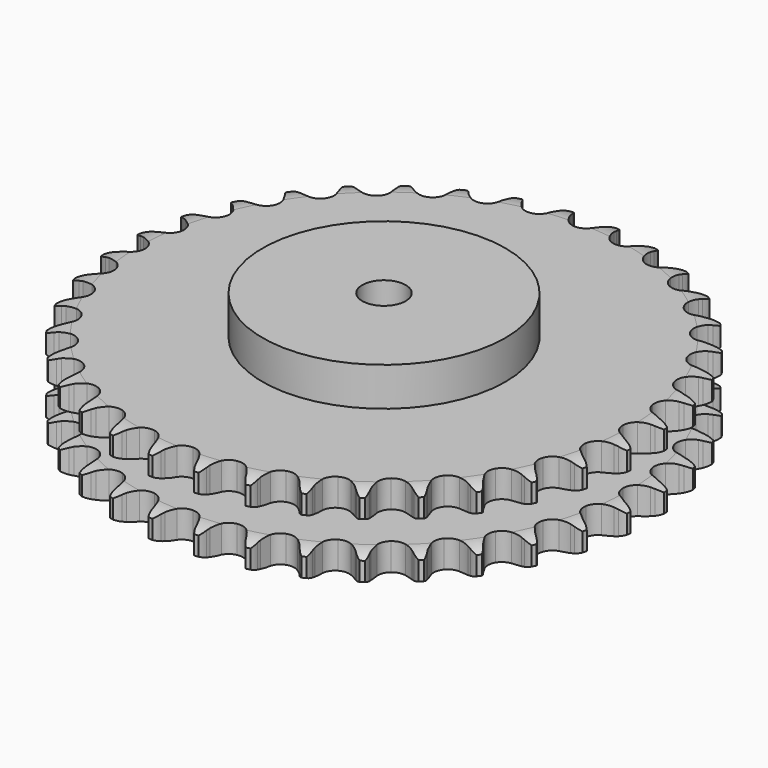
from build123d import *

# Parameters (mm, degrees)
PAD_DEPTH         = 47.7
SKETCH001_R       = 70
PAD001_DEPTH      = 70
SKETCH002_R       = 12.5
POCKET_DEPTH      = 0.0010001
POCKET_DEPTH_BACK = 70.001


with BuildPart() as part:
    # Sprocket → Pad (new body)
    with BuildSketch(Plane.XY):
        with BuildLine():
            ThreePointArc((-13.4111082266, 153.2896684684), (-11.4190056281, 150.9678405212), (-10.0289412419, 148.2425737854))
            Line((-10.0289412419, 148.2425737854), (-9.2543150645, 146.1397186474))
            ThreePointArc((-9.2543150645, 146.1397186474), (-8.0300781185, 143.4325347822), (-6.4312633349, 140.9282600635))
            ThreePointArc((-6.4312633349, 140.9282600635), (-3.598382067, 138.5511904364), (0, 137.69835822))
            ThreePointArc((0, 137.69835822), (3.598382067, 138.5511904364), (6.4312633349, 140.9282600635))
            ThreePointArc((6.4312633349, 140.9282600635), (8.0300781185, 143.4325347822), (9.2543150645, 146.1397186474))
            Line((9.2543150645, 146.1397186474), (10.0289412419, 148.2425737854))
            ThreePointArc((10.0289412419, 148.2425737854), (11.4190056281, 150.9678405212), (13.4111082266, 153.2896684684))
            ThreePointArc((13.4111082266, 153.2896684684), (14.9697651186, 150.6571893189), (15.865473701, 147.7319433609))
            Line((15.865473701, 147.7319433609), (16.2631746036, 145.5265228934))
            ThreePointArc((16.2631746036, 145.5265228934), (16.9987150947, 142.6478807195), (18.1383775479, 139.9040202872))
            ThreePointArc((18.1383775479, 139.9040202872), (20.515447175, 137.0711390193), (23.9110689726, 135.6064107521))
            ThreePointArc((23.9110689726, 135.6064107521), (27.6028762908, 135.8214340424), (30.8054935356, 137.6704659708))
            Line((30.8054935356, 137.6704659708), (34.4906170522, 142.3125330004))
            ThreePointArc((34.4906170522, 142.3125330004), (35.0284284797, 143.2959908431), (35.61863188, 144.2489286197))
            ThreePointArc((35.61863188, 144.2489286197), (37.460815667, 146.6914102827), (39.8258349428, 148.6320394603))
            ThreePointArc((39.8258349428, 148.6320394603), (40.9036871272, 145.7688956553), (41.2778242537, 142.7325525934))
            Line((41.2778242537, 142.7325525934), (41.2865159408, 140.4915773814))
            ThreePointArc((41.2865159408, 140.4915773814), (41.5110109515, 137.5289429845), (42.1568930074, 134.6288676494))
            ThreePointArc((42.1568930074, 134.6288676494), (44.0059249359, 131.4262504045), (47.0956122141, 129.3941311137))
            ThreePointArc((47.0956122141, 129.3941311137), (50.7686710861, 128.9648121039), (54.2437144036, 130.2296244343))
            Line((54.2437144036, 130.2296244343), (58.6789390938, 134.1612530519))
            ThreePointArc((58.6789390938, 134.1612530519), (59.3793556196, 135.0363799858), (60.1260684124, 135.8723527515))
            ThreePointArc((60.1260684124, 135.8723527515), (62.3643977781, 137.9578357722), (65.030473817, 139.4583011446))
            ThreePointArc((65.030473817, 139.4583011446), (65.5947713007, 136.4514878599), (65.4359690041, 133.3963054415))
            Line((65.4359690041, 133.3963054415), (65.0553873832, 131.1878663827))
            ThreePointArc((65.0553873832, 131.1878663827), (64.7620157461, 128.2312579099), (64.8944926053, 125.2630849935))
            ThreePointArc((64.8944926053, 125.2630849935), (66.1593049357, 121.788041676), (68.84917911, 119.2502762779))
            ThreePointArc((68.84917911, 119.2502762779), (72.3918855008, 118.189659609), (76.0337674582, 118.8318216587))
            Line((76.0337674582, 118.8318216587), (81.0843312641, 121.9335513183))
            ThreePointArc((81.0843312641, 121.9335513183), (81.9260710863, 122.6737570543), (82.8066047812, 123.3673641996))
            ThreePointArc((82.8066047812, 123.3673641996), (85.3730692205, 125.0324822318), (88.2591946514, 126.047192918))
            ThreePointArc((88.2591946514, 126.047192918), (88.2927915408, 122.9880706536), (87.6058749486, 120.0068790505))
            Line((87.6058749486, 120.0068790505), (86.8475837996, 117.8980784483))
            ThreePointArc((86.8475837996, 117.8980784483), (86.0452594634, 115.0373309518), (85.6603058836, 112.0912468863))
            ThreePointArc((85.6603058836, 112.0912468863), (86.3024679332, 108.4493649289), (88.510798538, 105.483062141))
            ThreePointArc((88.510798538, 105.483062141), (91.8155091065, 103.8233741137), (95.5135729634, 103.8233741137))
            Line((95.5135729634, 103.8233741137), (101.0260170596, 106.0009603292))
            ThreePointArc((101.0260170596, 106.0009603292), (101.9835043396, 106.5837540907), (102.971104366, 107.1139207134))
            ThreePointArc((102.971104366, 107.1139207134), (105.7877231555, 108.3080799883), (108.8062045175, 108.8062045175))
            ThreePointArc((108.8062045175, 108.8062045175), (108.3080799883, 105.7877231555), (107.1139207134, 102.971104366))
            Line((107.1139207134, 102.971104366), (106.0009603292, 101.0260170596))
            ThreePointArc((106.0009603292, 101.0260170596), (104.714061513, 98.3480529044), (103.8233741137, 95.5135729634))
            ThreePointArc((103.8233741137, 95.5135729634), (103.8233741137, 91.8155091065), (105.483062141, 88.510798538))
            ThreePointArc((105.483062141, 88.510798538), (108.4493649289, 86.3024679332), (112.0912468863, 85.6603058836))
            Line((112.0912468863, 85.6603058836), (117.8980784483, 86.8475837996))
            ThreePointArc((117.8980784483, 86.8475837996), (118.9422204198, 87.255257693), (120.0068790505, 87.6058749486))
            ThreePointArc((120.0068790505, 87.6058749486), (122.9880706536, 88.2927915408), (126.047192918, 88.2591946514))
            ThreePointArc((126.047192918, 88.2591946514), (125.0324822318, 85.3730692205), (123.3673641996, 82.8066047812))
            Line((123.3673641996, 82.8066047812), (121.9335513183, 81.0843312641))
            ThreePointArc((121.9335513183, 81.0843312641), (120.2011797913, 78.6705190361), (118.8318216587, 76.0337674582))
            ThreePointArc((118.8318216587, 76.0337674582), (118.189659609, 72.3918855008), (119.2502762779, 68.84917911))
            ThreePointArc((119.2502762779, 68.84917911), (121.788041676, 66.1593049357), (125.2630849935, 64.8944926053))
            Line((125.2630849935, 64.8944926053), (131.1878663827, 65.0553873832))
            ThreePointArc((131.1878663827, 65.0553873832), (132.2869373201, 65.2755544436), (133.3963054415, 65.4359690041))
            ThreePointArc((133.3963054415, 65.4359690041), (136.4514878599, 65.5947713007), (139.4583011446, 65.030473817))
            ThreePointArc((139.4583011446, 65.030473817), (137.9578357722, 62.3643977781), (135.8723527515, 60.1260684124))
            Line((135.8723527515, 60.1260684124), (134.1612530519, 58.6789390938))
            ThreePointArc((134.1612530519, 58.6789390938), (132.0360460465, 56.6026212561), (130.2296244343, 54.2437144036))
            ThreePointArc((130.2296244343, 54.2437144036), (128.9648121039, 50.7686710861), (129.3941311137, 47.0956122141))
            ThreePointArc((129.3941311137, 47.0956122141), (131.4262504045, 44.0059249359), (134.6288676494, 42.1568930074))
            Line((134.6288676494, 42.1568930074), (140.4915773814, 41.2865159408))
            ThreePointArc((140.4915773814, 41.2865159408), (141.6121825704, 41.3124865034), (142.7325525934, 41.2778242537))
            ThreePointArc((142.7325525934, 41.2778242537), (145.7688956553, 40.9036871272), (148.6320394603, 39.8258349428))
            ThreePointArc((148.6320394603, 39.8258349428), (146.6914102827, 37.4608156671), (144.2489286197, 35.61863188))
            Line((144.2489286197, 35.61863188), (142.3125330004, 34.4906170522))
            ThreePointArc((142.3125330004, 34.4906170522), (139.8590638559, 32.8148814715), (137.6704659708, 30.8054935356))
            ThreePointArc((137.6704659708, 30.8054935356), (135.8214340424, 27.6028762908), (135.6064107521, 23.9110689726))
            ThreePointArc((135.6064107521, 23.9110689726), (137.0711390193, 20.515447175), (139.9040202872, 18.1383775479))
            Line((139.9040202872, 18.1383775479), (145.5265228934, 16.2631746036))
            ThreePointArc((145.5265228934, 16.2631746036), (146.6346133126, 16.094159566), (147.7319433609, 15.865473701))
            ThreePointArc((147.7319433609, 15.865473701), (150.6571893189, 14.9697651186), (153.2896684684, 13.4111082266))
            ThreePointArc((153.2896684684, 13.4111082266), (150.9678405212, 11.4190056281), (148.2425737854, 10.0289412419))
            Line((148.2425737854, 10.0289412419), (146.1397186474, 9.2543150645))
            ThreePointArc((146.1397186474, 9.2543150645), (143.4325347822, 8.0300781185), (140.9282600635, 6.4312633349))
            ThreePointArc((140.9282600635, 6.4312633349), (138.5511904364, 3.598382067), (137.69835822, 0))
            ThreePointArc((137.69835822, 0), (138.5511904364, -3.598382067), (140.9282600635, -6.4312633349))
            Line((140.9282600635, -6.4312633349), (146.1397186474, -9.2543150645))
            ThreePointArc((146.1397186474, -9.2543150645), (147.2016255299, -9.6131802658), (148.2425737854, -10.0289412419))
            ThreePointArc((148.2425737854, -10.0289412419), (150.9678405212, -11.4190056281), (153.2896684684, -13.4111082266))
            ThreePointArc((153.2896684684, -13.4111082266), (150.6571893189, -14.9697651186), (147.7319433609, -15.865473701))
            Line((147.7319433609, -15.865473701), (145.5265228934, -16.2631746036))
            ThreePointArc((145.5265228934, -16.2631746036), (142.6478807195, -16.9987150947), (139.9040202872, -18.1383775479))
            ThreePointArc((139.9040202872, -18.1383775479), (137.0711390193, -20.515447175), (135.6064107521, -23.9110689726))
            ThreePointArc((135.6064107521, -23.9110689726), (135.8214340424, -27.6028762908), (137.6704659708, -30.8054935356))
            Line((137.6704659708, -30.8054935356), (142.3125330004, -34.4906170522))
            ThreePointArc((142.3125330004, -34.4906170522), (143.2959908431, -35.0284284797), (144.2489286197, -35.61863188))
            ThreePointArc((144.2489286197, -35.61863188), (146.6914102827, -37.460815667), (148.6320394603, -39.8258349428))
            ThreePointArc((148.6320394603, -39.8258349428), (145.7688956553, -40.9036871272), (142.7325525934, -41.2778242537))
            Line((142.7325525934, -41.2778242537), (140.4915773814, -41.2865159408))
            ThreePointArc((140.4915773814, -41.2865159408), (137.5289429845, -41.5110109515), (134.6288676494, -42.1568930074))
            ThreePointArc((134.6288676494, -42.1568930074), (131.4262504045, -44.0059249359), (129.3941311137, -47.0956122141))
            ThreePointArc((129.3941311137, -47.0956122141), (128.9648121039, -50.7686710861), (130.2296244343, -54.2437144036))
            Line((130.2296244343, -54.2437144036), (134.1612530519, -58.6789390938))
            ThreePointArc((134.1612530519, -58.6789390938), (135.0363799858, -59.3793556196), (135.8723527515, -60.1260684124))
            ThreePointArc((135.8723527515, -60.1260684124), (137.9578357722, -62.3643977781), (139.4583011446, -65.030473817))
            ThreePointArc((139.4583011446, -65.030473817), (136.4514878599, -65.5947713007), (133.3963054415, -65.4359690041))
            Line((133.3963054415, -65.4359690041), (131.1878663827, -65.0553873832))
            ThreePointArc((131.1878663827, -65.0553873832), (128.2312579099, -64.7620157461), (125.2630849935, -64.8944926053))
            ThreePointArc((125.2630849935, -64.8944926053), (121.788041676, -66.1593049357), (119.2502762779, -68.84917911))
            ThreePointArc((119.2502762779, -68.84917911), (118.189659609, -72.3918855008), (118.8318216587, -76.0337674582))
            Line((118.8318216587, -76.0337674582), (121.9335513183, -81.0843312641))
            ThreePointArc((121.9335513183, -81.0843312641), (122.6737570543, -81.9260710863), (123.3673641996, -82.8066047812))
            ThreePointArc((123.3673641996, -82.8066047812), (125.0324822318, -85.3730692205), (126.047192918, -88.2591946514))
            ThreePointArc((126.047192918, -88.2591946514), (122.9880706536, -88.2927915408), (120.0068790505, -87.6058749486))
            Line((120.0068790505, -87.6058749486), (117.8980784483, -86.8475837996))
            ThreePointArc((117.8980784483, -86.8475837996), (115.0373309518, -86.0452594634), (112.0912468863, -85.6603058836))
            ThreePointArc((112.0912468863, -85.6603058836), (108.4493649289, -86.3024679332), (105.483062141, -88.510798538))
            ThreePointArc((105.483062141, -88.510798538), (103.8233741137, -91.8155091065), (103.8233741137, -95.5135729634))
            Line((103.8233741137, -95.5135729634), (106.0009603292, -101.0260170596))
            ThreePointArc((106.0009603292, -101.0260170596), (106.5837540907, -101.9835043396), (107.1139207134, -102.971104366))
            ThreePointArc((107.1139207134, -102.971104366), (108.3080799883, -105.7877231555), (108.8062045175, -108.8062045175))
            ThreePointArc((108.8062045175, -108.8062045175), (105.7877231555, -108.3080799883), (102.971104366, -107.1139207134))
            Line((102.971104366, -107.1139207134), (101.0260170596, -106.0009603292))
            ThreePointArc((101.0260170596, -106.0009603292), (98.3480529044, -104.714061513), (95.5135729634, -103.8233741137))
            ThreePointArc((95.5135729634, -103.8233741137), (91.8155091065, -103.8233741137), (88.510798538, -105.483062141))
            ThreePointArc((88.510798538, -105.483062141), (86.3024679332, -108.4493649289), (85.6603058836, -112.0912468863))
            Line((85.6603058836, -112.0912468863), (86.8475837996, -117.8980784483))
            ThreePointArc((86.8475837996, -117.8980784483), (87.255257693, -118.9422204198), (87.6058749486, -120.0068790505))
            ThreePointArc((87.6058749486, -120.0068790505), (88.2927915408, -122.9880706536), (88.2591946514, -126.047192918))
            ThreePointArc((88.2591946514, -126.047192918), (85.3730692205, -125.0324822318), (82.8066047812, -123.3673641996))
            Line((82.8066047812, -123.3673641996), (81.0843312641, -121.9335513183))
            ThreePointArc((81.0843312641, -121.9335513183), (78.6705190361, -120.2011797913), (76.0337674582, -118.8318216587))
            ThreePointArc((76.0337674582, -118.8318216587), (72.3918855008, -118.189659609), (68.84917911, -119.2502762779))
            ThreePointArc((68.84917911, -119.2502762779), (66.1593049357, -121.788041676), (64.8944926053, -125.2630849935))
            Line((64.8944926053, -125.2630849935), (65.0553873832, -131.1878663827))
            ThreePointArc((65.0553873832, -131.1878663827), (65.2755544436, -132.2869373201), (65.4359690041, -133.3963054415))
            ThreePointArc((65.4359690041, -133.3963054415), (65.5947713007, -136.4514878599), (65.030473817, -139.4583011446))
            ThreePointArc((65.030473817, -139.4583011446), (62.3643977781, -137.9578357722), (60.1260684124, -135.8723527515))
            Line((60.1260684124, -135.8723527515), (58.6789390938, -134.1612530519))
            ThreePointArc((58.6789390938, -134.1612530519), (56.6026212561, -132.0360460465), (54.2437144036, -130.2296244343))
            ThreePointArc((54.2437144036, -130.2296244343), (50.7686710861, -128.9648121039), (47.0956122141, -129.3941311137))
            ThreePointArc((47.0956122141, -129.3941311137), (44.0059249359, -131.4262504045), (42.1568930074, -134.6288676494))
            Line((42.1568930074, -134.6288676494), (41.2865159408, -140.4915773814))
            ThreePointArc((41.2865159408, -140.4915773814), (41.3124865034, -141.6121825704), (41.2778242537, -142.7325525934))
            ThreePointArc((41.2778242537, -142.7325525934), (40.9036871272, -145.7688956553), (39.8258349428, -148.6320394603))
            ThreePointArc((39.8258349428, -148.6320394603), (37.4608156671, -146.6914102827), (35.61863188, -144.2489286197))
            Line((35.61863188, -144.2489286197), (34.4906170522, -142.3125330004))
            ThreePointArc((34.4906170522, -142.3125330004), (32.8148814715, -139.8590638559), (30.8054935356, -137.6704659708))
            ThreePointArc((30.8054935356, -137.6704659708), (27.6028762908, -135.8214340424), (23.9110689726, -135.6064107521))
            ThreePointArc((23.9110689726, -135.6064107521), (20.515447175, -137.0711390193), (18.1383775479, -139.9040202872))
            Line((18.1383775479, -139.9040202872), (16.2631746036, -145.5265228934))
            ThreePointArc((16.2631746036, -145.5265228934), (16.094159566, -146.6346133126), (15.865473701, -147.7319433609))
            ThreePointArc((15.865473701, -147.7319433609), (14.9697651186, -150.6571893189), (13.4111082266, -153.2896684684))
            ThreePointArc((13.4111082266, -153.2896684684), (11.4190056281, -150.9678405212), (10.0289412419, -148.2425737854))
            Line((10.0289412419, -148.2425737854), (9.2543150645, -146.1397186474))
            ThreePointArc((9.2543150645, -146.1397186474), (8.0300781185, -143.4325347822), (6.4312633349, -140.9282600635))
            ThreePointArc((6.4312633349, -140.9282600635), (3.598382067, -138.5511904364), (0, -137.69835822))
            ThreePointArc((0, -137.69835822), (-3.598382067, -138.5511904364), (-6.4312633349, -140.9282600635))
            Line((-6.4312633349, -140.9282600635), (-9.2543150645, -146.1397186474))
            ThreePointArc((-9.2543150645, -146.1397186474), (-9.6131802658, -147.2016255299), (-10.0289412419, -148.2425737854))
            ThreePointArc((-10.0289412419, -148.2425737854), (-11.4190056281, -150.9678405212), (-13.4111082266, -153.2896684684))
            ThreePointArc((-13.4111082266, -153.2896684684), (-14.9697651186, -150.6571893189), (-15.865473701, -147.7319433609))
            Line((-15.865473701, -147.7319433609), (-16.2631746036, -145.5265228934))
            ThreePointArc((-16.2631746036, -145.5265228934), (-16.9987150947, -142.6478807195), (-18.1383775479, -139.9040202872))
            ThreePointArc((-18.1383775479, -139.9040202872), (-20.515447175, -137.0711390193), (-23.9110689726, -135.6064107521))
            ThreePointArc((-23.9110689726, -135.6064107521), (-27.6028762908, -135.8214340424), (-30.8054935356, -137.6704659708))
            Line((-30.8054935356, -137.6704659708), (-34.4906170522, -142.3125330004))
            ThreePointArc((-34.4906170522, -142.3125330004), (-35.0284284797, -143.2959908431), (-35.61863188, -144.2489286197))
            ThreePointArc((-35.61863188, -144.2489286197), (-37.460815667, -146.6914102827), (-39.8258349428, -148.6320394603))
            ThreePointArc((-39.8258349428, -148.6320394603), (-40.9036871272, -145.7688956553), (-41.2778242537, -142.7325525934))
            Line((-41.2778242537, -142.7325525934), (-41.2865159408, -140.4915773814))
            ThreePointArc((-41.2865159408, -140.4915773814), (-41.5110109515, -137.5289429845), (-42.1568930074, -134.6288676494))
            ThreePointArc((-42.1568930074, -134.6288676494), (-44.0059249359, -131.4262504045), (-47.0956122141, -129.3941311137))
            ThreePointArc((-47.0956122141, -129.3941311137), (-50.7686710861, -128.9648121039), (-54.2437144036, -130.2296244343))
            Line((-54.2437144036, -130.2296244343), (-58.6789390938, -134.1612530519))
            ThreePointArc((-58.6789390938, -134.1612530519), (-59.3793556196, -135.0363799858), (-60.1260684124, -135.8723527515))
            ThreePointArc((-60.1260684124, -135.8723527515), (-62.3643977781, -137.9578357722), (-65.030473817, -139.4583011446))
            ThreePointArc((-65.030473817, -139.4583011446), (-65.5947713007, -136.4514878599), (-65.4359690041, -133.3963054415))
            Line((-65.4359690041, -133.3963054415), (-65.0553873832, -131.1878663827))
            ThreePointArc((-65.0553873832, -131.1878663827), (-64.7620157461, -128.2312579099), (-64.8944926053, -125.2630849935))
            ThreePointArc((-64.8944926053, -125.2630849935), (-66.1593049357, -121.788041676), (-68.84917911, -119.2502762779))
            ThreePointArc((-68.84917911, -119.2502762779), (-72.3918855008, -118.189659609), (-76.0337674582, -118.8318216587))
            Line((-76.0337674582, -118.8318216587), (-81.0843312641, -121.9335513183))
            ThreePointArc((-81.0843312641, -121.9335513183), (-81.9260710863, -122.6737570543), (-82.8066047812, -123.3673641996))
            ThreePointArc((-82.8066047812, -123.3673641996), (-85.3730692205, -125.0324822318), (-88.2591946514, -126.047192918))
            ThreePointArc((-88.2591946514, -126.047192918), (-88.2927915408, -122.9880706536), (-87.6058749486, -120.0068790505))
            Line((-87.6058749486, -120.0068790505), (-86.8475837996, -117.8980784483))
            ThreePointArc((-86.8475837996, -117.8980784483), (-86.0452594634, -115.0373309518), (-85.6603058836, -112.0912468863))
            ThreePointArc((-85.6603058836, -112.0912468863), (-86.3024679332, -108.4493649289), (-88.510798538, -105.483062141))
            ThreePointArc((-88.510798538, -105.483062141), (-91.8155091065, -103.8233741137), (-95.5135729634, -103.8233741137))
            Line((-95.5135729634, -103.8233741137), (-101.0260170596, -106.0009603292))
            ThreePointArc((-101.0260170596, -106.0009603292), (-101.9835043396, -106.5837540907), (-102.971104366, -107.1139207134))
            ThreePointArc((-102.971104366, -107.1139207134), (-105.7877231555, -108.3080799883), (-108.8062045175, -108.8062045175))
            ThreePointArc((-108.8062045175, -108.8062045175), (-108.3080799883, -105.7877231555), (-107.1139207134, -102.971104366))
            Line((-107.1139207134, -102.971104366), (-106.0009603292, -101.0260170596))
            ThreePointArc((-106.0009603292, -101.0260170596), (-104.714061513, -98.3480529044), (-103.8233741137, -95.5135729634))
            ThreePointArc((-103.8233741137, -95.5135729634), (-103.8233741137, -91.8155091065), (-105.483062141, -88.510798538))
            ThreePointArc((-105.483062141, -88.510798538), (-108.4493649289, -86.3024679332), (-112.0912468863, -85.6603058836))
            Line((-112.0912468863, -85.6603058836), (-117.8980784483, -86.8475837996))
            ThreePointArc((-117.8980784483, -86.8475837996), (-118.9422204198, -87.255257693), (-120.0068790505, -87.6058749486))
            ThreePointArc((-120.0068790505, -87.6058749486), (-122.9880706536, -88.2927915408), (-126.047192918, -88.2591946514))
            ThreePointArc((-126.047192918, -88.2591946514), (-125.0324822318, -85.3730692205), (-123.3673641996, -82.8066047812))
            Line((-123.3673641996, -82.8066047812), (-121.9335513183, -81.0843312641))
            ThreePointArc((-121.9335513183, -81.0843312641), (-120.2011797913, -78.6705190361), (-118.8318216587, -76.0337674582))
            ThreePointArc((-118.8318216587, -76.0337674582), (-118.189659609, -72.3918855008), (-119.2502762779, -68.84917911))
            ThreePointArc((-119.2502762779, -68.84917911), (-121.788041676, -66.1593049357), (-125.2630849935, -64.8944926053))
            Line((-125.2630849935, -64.8944926053), (-131.1878663827, -65.0553873832))
            ThreePointArc((-131.1878663827, -65.0553873832), (-132.2869373201, -65.2755544436), (-133.3963054415, -65.4359690041))
            ThreePointArc((-133.3963054415, -65.4359690041), (-136.4514878599, -65.5947713007), (-139.4583011446, -65.030473817))
            ThreePointArc((-139.4583011446, -65.030473817), (-137.9578357722, -62.3643977781), (-135.8723527515, -60.1260684124))
            Line((-135.8723527515, -60.1260684124), (-134.1612530519, -58.6789390938))
            ThreePointArc((-134.1612530519, -58.6789390938), (-132.0360460465, -56.6026212561), (-130.2296244343, -54.2437144036))
            ThreePointArc((-130.2296244343, -54.2437144036), (-128.9648121039, -50.7686710861), (-129.3941311137, -47.0956122141))
            ThreePointArc((-129.3941311137, -47.0956122141), (-131.4262504045, -44.0059249359), (-134.6288676494, -42.1568930074))
            Line((-134.6288676494, -42.1568930074), (-140.4915773814, -41.2865159408))
            ThreePointArc((-140.4915773814, -41.2865159408), (-141.6121825704, -41.3124865034), (-142.7325525934, -41.2778242537))
            ThreePointArc((-142.7325525934, -41.2778242537), (-145.7688956553, -40.9036871272), (-148.6320394603, -39.8258349428))
            ThreePointArc((-148.6320394603, -39.8258349428), (-146.6914102827, -37.4608156671), (-144.2489286197, -35.61863188))
            Line((-144.2489286197, -35.61863188), (-142.3125330004, -34.4906170522))
            ThreePointArc((-142.3125330004, -34.4906170522), (-139.8590638559, -32.8148814715), (-137.6704659708, -30.8054935356))
            ThreePointArc((-137.6704659708, -30.8054935356), (-135.8214340424, -27.6028762908), (-135.6064107521, -23.9110689726))
            ThreePointArc((-135.6064107521, -23.9110689726), (-137.0711390193, -20.515447175), (-139.9040202872, -18.1383775479))
            Line((-139.9040202872, -18.1383775479), (-145.5265228934, -16.2631746036))
            ThreePointArc((-145.5265228934, -16.2631746036), (-146.6346133126, -16.094159566), (-147.7319433609, -15.865473701))
            ThreePointArc((-147.7319433609, -15.865473701), (-150.6571893189, -14.9697651186), (-153.2896684684, -13.4111082266))
            ThreePointArc((-153.2896684684, -13.4111082266), (-150.9678405212, -11.4190056281), (-148.2425737854, -10.0289412419))
            Line((-148.2425737854, -10.0289412419), (-146.1397186474, -9.2543150645))
            ThreePointArc((-146.1397186474, -9.2543150645), (-143.4325347822, -8.0300781185), (-140.9282600635, -6.4312633349))
            ThreePointArc((-140.9282600635, -6.4312633349), (-138.5511904364, -3.598382067), (-137.69835822, 0))
            ThreePointArc((-137.69835822, 0), (-138.5511904364, 3.598382067), (-140.9282600635, 6.4312633349))
            Line((-140.9282600635, 6.4312633349), (-146.1397186474, 9.2543150645))
            ThreePointArc((-146.1397186474, 9.2543150645), (-147.2016255299, 9.6131802658), (-148.2425737854, 10.0289412419))
            ThreePointArc((-148.2425737854, 10.0289412419), (-150.9678405212, 11.4190056281), (-153.2896684684, 13.4111082266))
            ThreePointArc((-153.2896684684, 13.4111082266), (-150.6571893189, 14.9697651186), (-147.7319433609, 15.865473701))
            Line((-147.7319433609, 15.865473701), (-145.5265228934, 16.2631746036))
            ThreePointArc((-145.5265228934, 16.2631746036), (-142.6478807195, 16.9987150947), (-139.9040202872, 18.1383775479))
            ThreePointArc((-139.9040202872, 18.1383775479), (-137.0711390193, 20.515447175), (-135.6064107521, 23.9110689726))
            ThreePointArc((-135.6064107521, 23.9110689726), (-135.8214340424, 27.6028762908), (-137.6704659708, 30.8054935356))
            Line((-137.6704659708, 30.8054935356), (-142.3125330004, 34.4906170522))
            ThreePointArc((-142.3125330004, 34.4906170522), (-143.2959908431, 35.0284284797), (-144.2489286197, 35.61863188))
            ThreePointArc((-144.2489286197, 35.61863188), (-146.6914102827, 37.460815667), (-148.6320394603, 39.8258349428))
            ThreePointArc((-148.6320394603, 39.8258349428), (-145.7688956553, 40.9036871272), (-142.7325525934, 41.2778242537))
            Line((-142.7325525934, 41.2778242537), (-140.4915773814, 41.2865159408))
            ThreePointArc((-140.4915773814, 41.2865159408), (-137.5289429845, 41.5110109515), (-134.6288676494, 42.1568930074))
            ThreePointArc((-134.6288676494, 42.1568930074), (-131.4262504045, 44.0059249359), (-129.3941311137, 47.0956122141))
            ThreePointArc((-129.3941311137, 47.0956122141), (-128.9648121039, 50.7686710861), (-130.2296244343, 54.2437144036))
            Line((-130.2296244343, 54.2437144036), (-134.1612530519, 58.6789390938))
            ThreePointArc((-134.1612530519, 58.6789390938), (-135.0363799858, 59.3793556196), (-135.8723527515, 60.1260684124))
            ThreePointArc((-135.8723527515, 60.1260684124), (-137.9578357722, 62.3643977781), (-139.4583011446, 65.030473817))
            ThreePointArc((-139.4583011446, 65.030473817), (-136.4514878599, 65.5947713007), (-133.3963054415, 65.4359690041))
            Line((-133.3963054415, 65.4359690041), (-131.1878663827, 65.0553873832))
            ThreePointArc((-131.1878663827, 65.0553873832), (-128.2312579099, 64.7620157461), (-125.2630849935, 64.8944926053))
            ThreePointArc((-125.2630849935, 64.8944926053), (-121.788041676, 66.1593049357), (-119.2502762779, 68.84917911))
            ThreePointArc((-119.2502762779, 68.84917911), (-118.189659609, 72.3918855008), (-118.8318216587, 76.0337674582))
            Line((-118.8318216587, 76.0337674582), (-121.9335513183, 81.0843312641))
            ThreePointArc((-121.9335513183, 81.0843312641), (-122.6737570543, 81.9260710863), (-123.3673641996, 82.8066047812))
            ThreePointArc((-123.3673641996, 82.8066047812), (-125.0324822318, 85.3730692205), (-126.047192918, 88.2591946514))
            ThreePointArc((-126.047192918, 88.2591946514), (-122.9880706536, 88.2927915408), (-120.0068790505, 87.6058749486))
            Line((-120.0068790505, 87.6058749486), (-117.8980784483, 86.8475837996))
            ThreePointArc((-117.8980784483, 86.8475837996), (-115.0373309518, 86.0452594634), (-112.0912468863, 85.6603058836))
            ThreePointArc((-112.0912468863, 85.6603058836), (-108.4493649289, 86.3024679332), (-105.483062141, 88.510798538))
            ThreePointArc((-105.483062141, 88.510798538), (-103.8233741137, 91.8155091065), (-103.8233741137, 95.5135729634))
            Line((-103.8233741137, 95.5135729634), (-106.0009603292, 101.0260170596))
            ThreePointArc((-106.0009603292, 101.0260170596), (-106.5837540907, 101.9835043396), (-107.1139207134, 102.971104366))
            ThreePointArc((-107.1139207134, 102.971104366), (-108.3080799883, 105.7877231555), (-108.8062045175, 108.8062045175))
            ThreePointArc((-108.8062045175, 108.8062045175), (-105.7877231555, 108.3080799883), (-102.971104366, 107.1139207134))
            Line((-102.971104366, 107.1139207134), (-101.0260170596, 106.0009603292))
            ThreePointArc((-101.0260170596, 106.0009603292), (-98.3480529044, 104.714061513), (-95.5135729634, 103.8233741137))
            ThreePointArc((-95.5135729634, 103.8233741137), (-91.8155091065, 103.8233741137), (-88.510798538, 105.483062141))
            ThreePointArc((-88.510798538, 105.483062141), (-86.3024679332, 108.4493649289), (-85.6603058836, 112.0912468863))
            Line((-85.6603058836, 112.0912468863), (-86.8475837996, 117.8980784483))
            ThreePointArc((-86.8475837996, 117.8980784483), (-87.255257693, 118.9422204198), (-87.6058749486, 120.0068790505))
            ThreePointArc((-87.6058749486, 120.0068790505), (-88.2927915408, 122.9880706536), (-88.2591946514, 126.047192918))
            ThreePointArc((-88.2591946514, 126.047192918), (-85.3730692205, 125.0324822318), (-82.8066047812, 123.3673641996))
            Line((-82.8066047812, 123.3673641996), (-81.0843312641, 121.9335513183))
            ThreePointArc((-81.0843312641, 121.9335513183), (-78.6705190361, 120.2011797913), (-76.0337674582, 118.8318216587))
            ThreePointArc((-76.0337674582, 118.8318216587), (-72.3918855008, 118.189659609), (-68.84917911, 119.2502762779))
            ThreePointArc((-68.84917911, 119.2502762779), (-66.1593049357, 121.788041676), (-64.8944926053, 125.2630849935))
            Line((-64.8944926053, 125.2630849935), (-65.0553873832, 131.1878663827))
            ThreePointArc((-65.0553873832, 131.1878663827), (-65.2755544436, 132.2869373201), (-65.4359690041, 133.3963054415))
            ThreePointArc((-65.4359690041, 133.3963054415), (-65.5947713007, 136.4514878599), (-65.030473817, 139.4583011446))
            ThreePointArc((-65.030473817, 139.4583011446), (-62.3643977781, 137.9578357722), (-60.1260684124, 135.8723527515))
            Line((-60.1260684124, 135.8723527515), (-58.6789390938, 134.1612530519))
            ThreePointArc((-58.6789390938, 134.1612530519), (-56.6026212561, 132.0360460465), (-54.2437144036, 130.2296244343))
            ThreePointArc((-54.2437144036, 130.2296244343), (-50.7686710861, 128.9648121039), (-47.0956122141, 129.3941311137))
            ThreePointArc((-47.0956122141, 129.3941311137), (-44.0059249359, 131.4262504045), (-42.1568930074, 134.6288676494))
            Line((-42.1568930074, 134.6288676494), (-41.2865159408, 140.4915773814))
            ThreePointArc((-41.2865159408, 140.4915773814), (-41.3124865034, 141.6121825704), (-41.2778242537, 142.7325525934))
            ThreePointArc((-41.2778242537, 142.7325525934), (-40.9036871272, 145.7688956553), (-39.8258349428, 148.6320394603))
            ThreePointArc((-39.8258349428, 148.6320394603), (-37.4608156671, 146.6914102827), (-35.61863188, 144.2489286197))
            Line((-35.61863188, 144.2489286197), (-34.4906170522, 142.3125330004))
            ThreePointArc((-34.4906170522, 142.3125330004), (-32.8148814715, 139.8590638559), (-30.8054935356, 137.6704659708))
            ThreePointArc((-30.8054935356, 137.6704659708), (-27.6028762908, 135.8214340424), (-23.9110689726, 135.6064107521))
            ThreePointArc((-23.9110689726, 135.6064107521), (-20.515447175, 137.0711390193), (-18.1383775479, 139.9040202872))
            Line((-18.1383775479, 139.9040202872), (-16.2631746036, 145.5265228934))
            ThreePointArc((-16.2631746036, 145.5265228934), (-16.094159566, 146.6346133126), (-15.865473701, 147.7319433609))
            ThreePointArc((-15.865473701, 147.7319433609), (-14.9697651186, 150.6571893189), (-13.4111082266, 153.2896684684))
        make_face()
    extrude(amount=PAD_DEPTH)

    # Sketch → Groove (revolve, cut)
    with BuildSketch(Plane.XZ):
        with BuildLine():
            ThreePointArc((141.1757022694, 0), (146.8765793949, 0.6326982121), (152.3, 2.5))
            Line((152.3, 2.5), (152.3, 13.3))
            ThreePointArc((152.3, 13.3), (146.8765793949, 15.1673017879), (141.1757022694, 15.8))
            Line((70, 15.8), (141.1757022694, 15.8))
            Line((70, 31.9), (70, 15.8))
            Line((141.1757022694, 31.9), (70, 31.9))
            ThreePointArc((141.1757022694, 31.9), (146.8765793949, 32.5326982121), (152.3, 34.4))
            Line((152.3, 34.4), (152.3, 45.2))
            ThreePointArc((152.3, 45.2), (146.8765793949, 47.0673017879), (141.1757022694, 47.7))
            Line((141.1757022694, 47.7), (162.3, 47.7))
            Line((162.3, 47.7), (162.3, 0))
            Line((141.1757022694, 0), (162.3, 0))
        make_face()
    revolve(axis=Axis((0, 0, 0), (0, 0, 1)), mode=Mode.SUBTRACT)

    # Sketch001 → Pad001 (join)
    with BuildSketch(Plane.XY):
        Circle(SKETCH001_R)
    extrude(amount=PAD001_DEPTH)

    # Sketch002 → Pocket (cut, two sides)
    with BuildSketch(Plane.XY) as pocket_sk:
        Circle(SKETCH002_R)
    extrude(amount=-POCKET_DEPTH, mode=Mode.SUBTRACT)
    extrude(pocket_sk.sketch, amount=POCKET_DEPTH_BACK, mode=Mode.SUBTRACT)


solid = part.part
